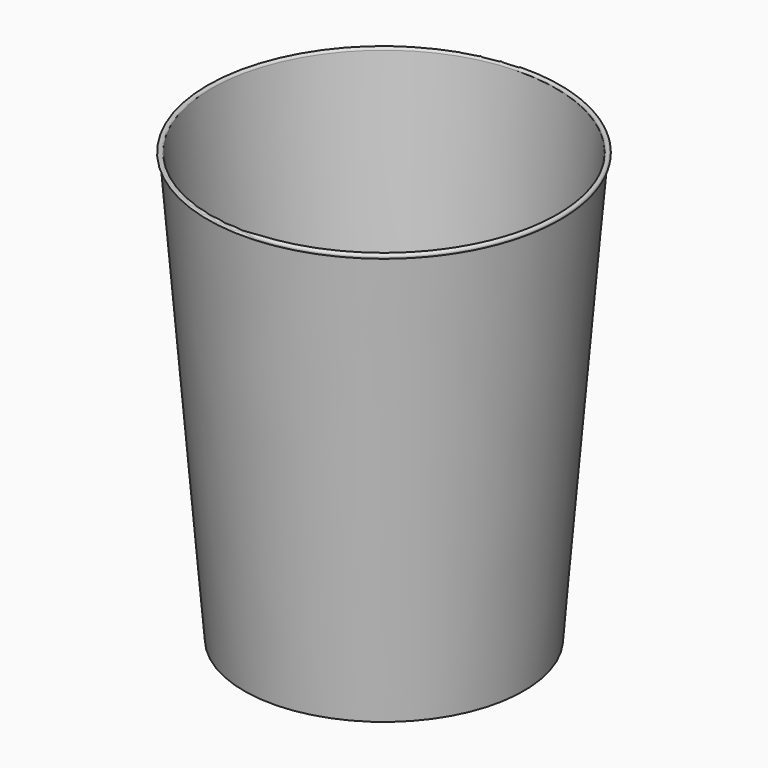
from build123d import *


with BuildPart() as f1:
    # F0 (on Front) → F1 (revolve)
    with BuildSketch(Plane.XZ):
        with BuildLine():
            Line((0, 1.241046), (0, 2.482092))
            Line((0, 2.482092), (-22.902938, 2.482092))
            Line((-22.902938, 2.482092), (-22.902938, 0))
            Line((-22.902938, 0), (-24.024541, 0))
            Line((-24.024541, 0), (-30.056966, 73.394649))
            ThreePointArc((-30.056966, 73.394649), (-30.761444, 73.644653), (-30.481581, 72.951496))
            Line((-30.481581, 72.951496), (-24.376155, -1.331323))
            Line((-24.376155, -1.331323), (-22.775946, -1.199799))
            Line((-22.775946, -1.199799), (-21.772536, 1.241046))
            Line((-21.772536, 1.241046), (0, 1.241046))
        make_face()
    revolve(axis=Axis((0, 0, 1.861569), (0, 0, 1)))


solid = f1.part
